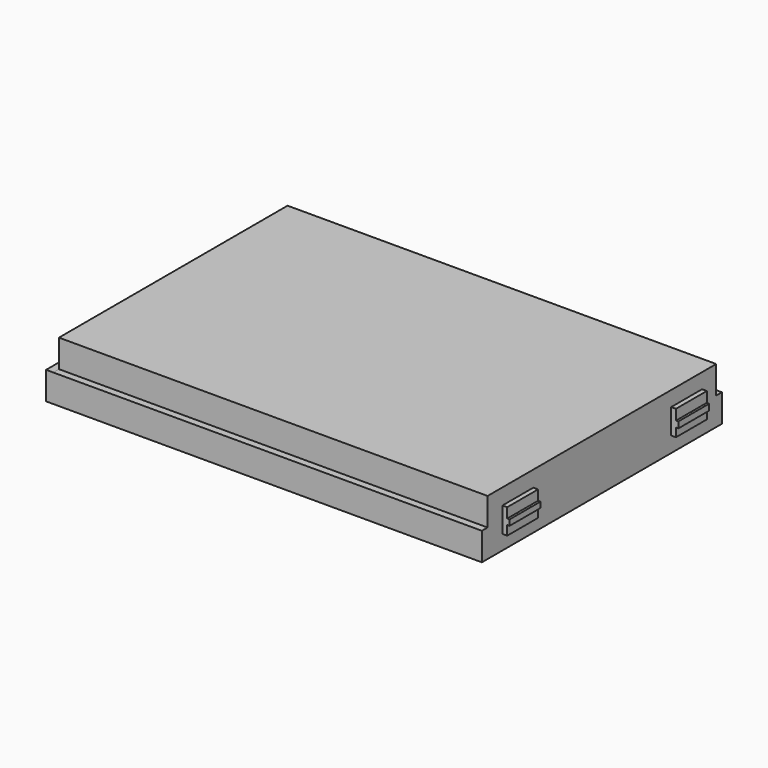
from build123d import *

# Parameters (mm, degrees)
F0_W      = 180
F0_H      = 11.661972
F1_DEPTH  = 120
F0_H_2    = 11.661973
F2_DEPTH  = 123
F3_DEPTH  = 3
F5_DEPTH  = 3
F6_W      = 16.172498
F6_H      = 10.53093
F7_DEPTH  = 2
F8_W      = 16.172498
F8_H      = 2.371989
F9_DEPTH  = 1
F10_W     = 16.172498
F10_H     = 2.571781
F11_DEPTH = 1


with BuildPart() as f1:
    # F0 (on Front) → F1 (new body)
    with BuildSketch(Plane.XZ):
        with Locations((4.337892, -7.986002)):
            Rectangle(F0_W, F0_H)
    extrude(amount=F1_DEPTH)

    # F0 (on Front) → F2 (join)
    with BuildSketch(Plane.XZ):
        with Locations((4.337892, -19.647974)):
            Rectangle(F0_W, F0_H_2)
    extrude(amount=F2_DEPTH)

    # F0 (on Front) → F3 (join)
    with BuildSketch(Plane.XZ):
        with Locations((4.337892, -19.647974)):
            Rectangle(F0_W, F0_H_2)
    extrude(amount=-F3_DEPTH)

    # F4 (on face) → F5 (join)
    with BuildSketch(Plane(origin=(-85.662108, 0, 0), x_dir=(0, -1, 0), z_dir=(-1, 0, 0))):
        Polygon((120, -13.816988), (0, -13.816988), (-3, -13.816988), (-3, -25.478961), (123, -25.478961), (123, -13.816988), align=None)
    extrude(amount=F5_DEPTH)

    # F6 (on face) → F7 (join)
    with BuildSketch(Plane.YZ.offset(94.337892)):
        with Locations((-104.099579, -14.101449)):
            Rectangle(F6_W, F6_H)
        with Locations((-15.526928, -13.725346)):
            Rectangle(F6_W, F6_H)
    extrude(amount=F7_DEPTH)

    # F8 (on face) → F9 (join)
    with BuildSketch(Plane.YZ.offset(96.337892)):
        with Locations((-104.099579, -14.216289)):
            Rectangle(F8_W, F8_H)
    extrude(amount=F9_DEPTH)

    # F10 (on face) → F11 (join)
    with BuildSketch(Plane.YZ.offset(96.337892)):
        with Locations((-15.526928, -14.113497)):
            Rectangle(F10_W, F10_H)
    extrude(amount=F11_DEPTH)


solid = f1.part
